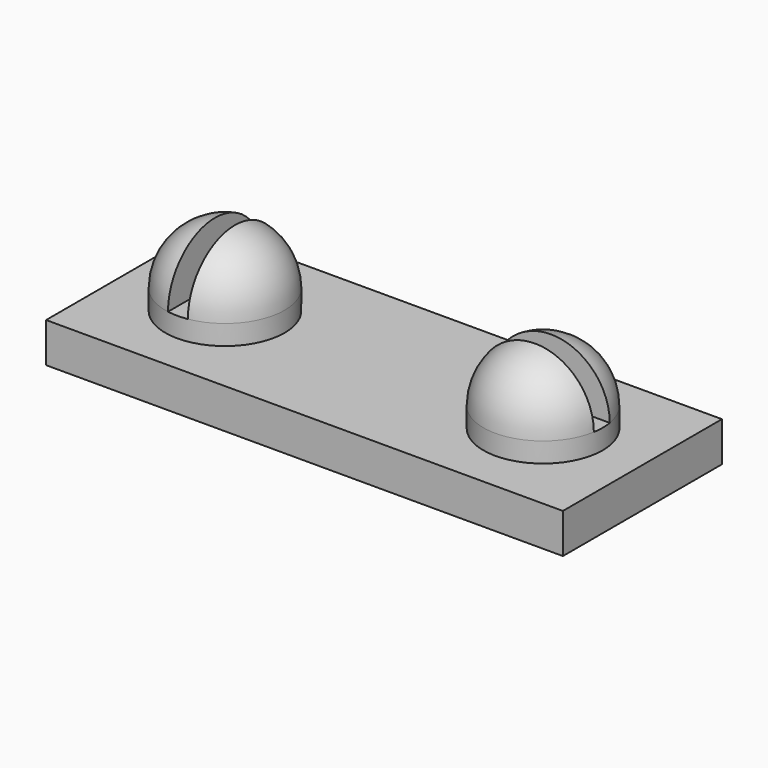
from build123d import *

# Parameters (mm, degrees)
SKETCH074_W     = 13
SKETCH074_H     = 5
PAD037_DEPTH    = 1
SKETCH070_R     = 1.5
PAD038_DEPTH    = 2
FILLET010_R     = 1.5
SKETCH073_W     = 0.5
SKETCH073_H     = 4
SKETCH073_W_2   = 4
SKETCH073_H_2   = 0.5
POCKET025_DEPTH = 1.5


with BuildPart() as part:
    # Sketch074 (on Face1 of CopyPocket001) → Pad037 (new body)
    with BuildSketch(Plane.XY.offset(8.15)):
        with Locations((7, -24)):
            Rectangle(SKETCH074_W, SKETCH074_H)
    extrude(amount=PAD037_DEPTH)

    # Sketch070 (on Face6 of Pad037) → Pad038 (join)
    with BuildSketch(Plane.XY.offset(9.15)):
        with Locations((3, -24)):
            Circle(SKETCH070_R)
        with Locations((11, -24)):
            Circle(SKETCH070_R)
    extrude(amount=PAD038_DEPTH)

    # Fillet010
    fillet010_edges = [part.edges().sort_by_distance(p)[0] for p in [
        (9.5, -24, 11.15),
        (1.5, -24, 11.15),
    ]]
    fillet(fillet010_edges, radius=FILLET010_R)

    # Sketch073 (on Face12 of Fillet010) → Pocket025 (cut)
    with BuildSketch(Plane.XY.offset(11.15)):
        with Locations((3, -24)):
            Rectangle(SKETCH073_W, SKETCH073_H)
        with Locations((11, -24)):
            Rectangle(SKETCH073_W_2, SKETCH073_H_2)
    extrude(amount=-POCKET025_DEPTH, mode=Mode.SUBTRACT)


solid = part.part
